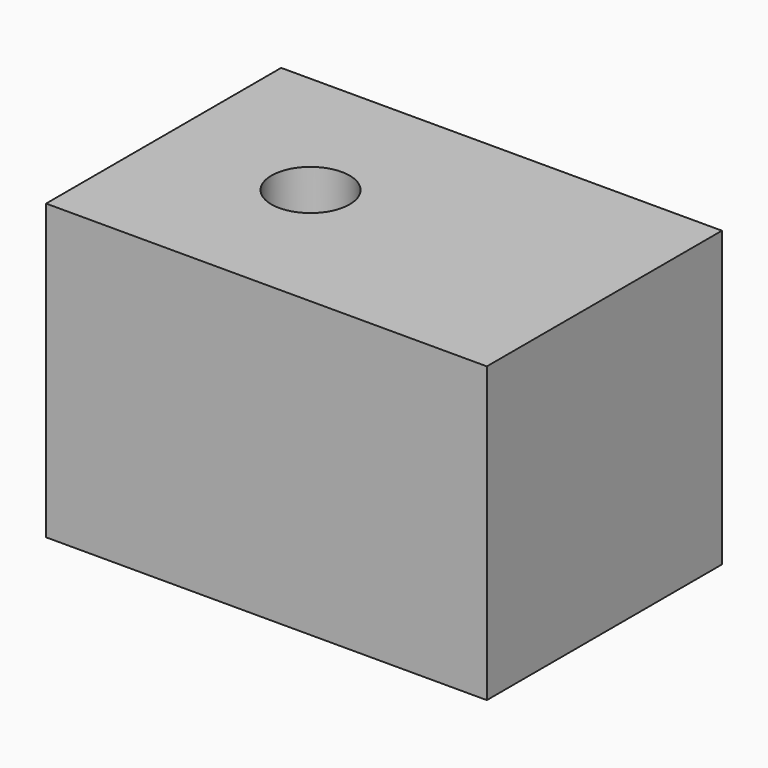
from build123d import *

# Parameters (mm, degrees)
F0_W     = 38.1
F0_H     = 25.4
F1_DEPTH = 25.4
F3_D     = 6.7564
F3_DEPTH = 12.7
F3_TIP   = 2.0298273432


with BuildPart() as f1:
    # F0 (on Top) → F1 (new body)
    with BuildSketch(Plane.XY):
        with Locations((-31.75, 25.4)):
            Rectangle(F0_W, F0_H)
    extrude(amount=F1_DEPTH)

    # F3
    with Locations(Plane.XY.offset(25.4)):
        with Locations((-38.1, 25.4)):
            Hole(F3_D / 2, depth=F3_DEPTH)
            with Locations((0, 0, -(F3_DEPTH + F3_TIP / 2))):  # 118° drill point
                Cone(0, F3_D / 2, F3_TIP, mode=Mode.SUBTRACT)


solid = f1.part
